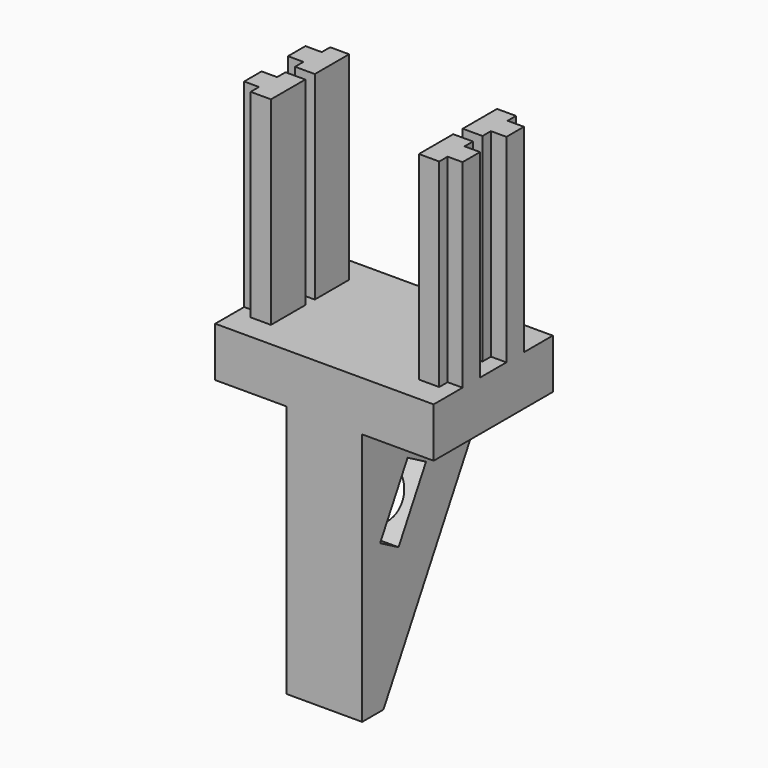
from build123d import *

# Parameters (mm, degrees)
F0_W      = 18.923
F0_H      = 19.05
F0_W_2    = 4.5085
F1_DEPTH  = 6.35
F3_DEPTH  = 25.4
F4_W      = 9.652
F4_H      = 19.05
F5_DEPTH  = 32.385
F7_DEPTH  = 25.4
F8_R      = 3.4036
F9_DEPTH  = 6.35
F11_DEPTH = 25.4


with BuildPart() as f1:
    # F0 (on Top) → F1 (new body)
    with BuildSketch(Plane.XY):
        with Locations((9.4615, 9.525)):
            Rectangle(F0_W, F0_H)
        with Locations((-2.25425, 9.525)):
            Rectangle(F0_W_2, F0_H)
        with Locations((21.17725, 9.525)):
            Rectangle(F0_W_2, F0_H)
    extrude(amount=-F1_DEPTH)

    # F2 (on face) → F3 (join)
    with BuildSketch(Plane.XY):
        Polygon((-2.5273, 10.287), (0, 10.287), (0, 15.7734), (-2.426286, 15.7734), (-2.426286, 14.4272), (-4.5085, 14.4272), (-4.5085, 11.6332), (-2.5273, 11.6332), align=None)
        Polygon((21.4503, 7.4168), (21.4503, 8.763), (18.923, 8.763), (18.923, 3.2766), (21.524463, 3.2766), (21.524463, 4.6228), (23.4315, 4.6228), (23.4315, 7.4168), align=None)
        Polygon((18.923, 15.7734), (18.923, 10.287), (21.4503, 10.287), (21.4503, 11.6332), (23.4315, 11.6332), (23.4315, 14.4272), (21.349286, 14.4272), (21.349286, 15.7734), align=None)
        Polygon((0, 3.2766), (0, 8.763), (-2.5273, 8.763), (-2.5273, 7.4168), (-4.5085, 7.4168), (-4.5085, 4.6228), (-2.601463, 4.6228), (-2.601463, 3.2766), align=None)
    extrude(amount=F3_DEPTH)

    # F4 (on face) → F5 (join)
    with BuildSketch(Plane(origin=(0, 0, -6.35), x_dir=(1, 0, 0), z_dir=(0, 0, -1))):
        with Locations((9.4615, -9.525)):
            Rectangle(F4_W, F4_H)
    extrude(amount=F5_DEPTH)

    # F6 (on face) → F7 (cut)
    with BuildSketch(Plane(origin=(4.6355, 0, 0), x_dir=(0, -1, 0), z_dir=(-1, 0, 0))):
        Polygon((-19.05, -38.735), (-3.4036, -38.735), (-19.05, -10.795), align=None)
    extrude(amount=-F7_DEPTH, mode=Mode.SUBTRACT)

    # F8 (on face) → F9 (cut)
    with BuildSketch(Plane(origin=(0, 19.104141, -10.698319), x_dir=(-1, 0, 0), z_dir=(0, 0.872506, -0.488603))):
        with Locations((-9.638287, -11.434614)):
            Circle(F8_R)
    extrude(amount=-F9_DEPTH, mode=Mode.SUBTRACT)

    # F10 (on face) → F11 (cut)
    with BuildSketch(Plane(origin=(4.6355, 0, 0), x_dir=(0, -1, 0), z_dir=(-1, 0, 0))):
        Polygon((-7.264855, -11.930685), (-10.212355, -13.581285), (-5.819029, -21.42651), (-2.871529, -19.77591), align=None)
    extrude(amount=-F11_DEPTH, mode=Mode.SUBTRACT)


solid = f1.part
